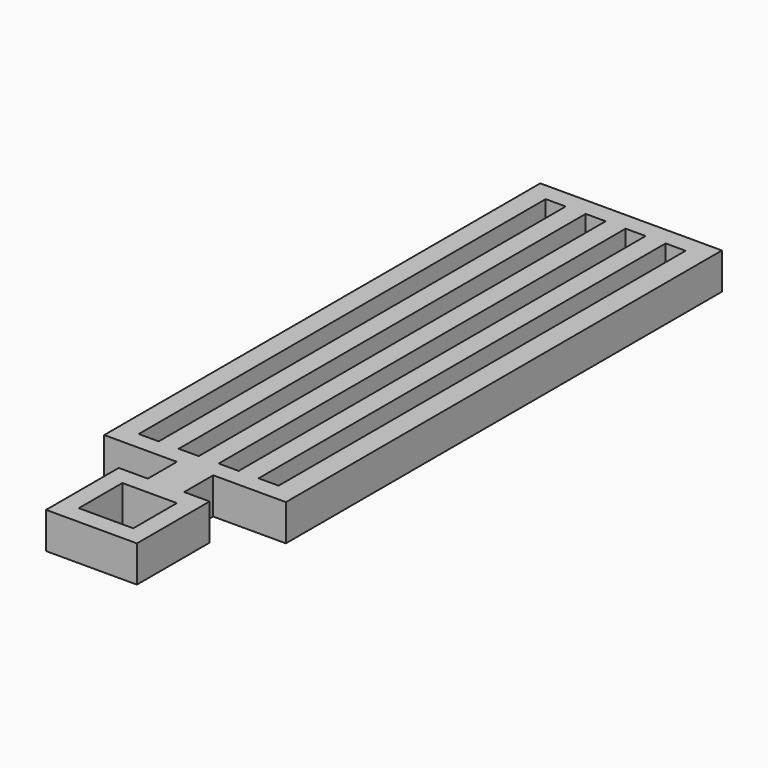
from build123d import *

# Parameters (mm, degrees)
F0_W     = 2.54
F0_H     = 2.54
F1_DEPTH = 2.54
F2_W     = 1.397
F2_H     = 35.56
F3_DEPTH = 2.541
F4_W     = 3.81
F4_H     = 3.81
F5_DEPTH = 2.541


with BuildPart() as f1:
    # F0 (on Top) → F1 (new body)
    with BuildSketch(Plane.XY):
        Polygon((6.35, 25.4), (-6.35, 25.4), (-6.35, -12.7), (-1.27, -12.7), (1.27, -12.7), (6.35, -12.7), align=None)
        with Locations((0, -13.97)):
            Rectangle(F0_W, F0_H)
        Polygon((1.27, -15.24), (-1.27, -15.24), (-3.302, -15.24), (-3.302, -21.59), (3.048, -21.59), (3.048, -15.24), align=None)
    extrude(amount=F1_DEPTH)

    # F2 (on face) → F3 (cut, through all)
    with BuildSketch(Plane.XY.offset(2.54)):
        with Locations((-4.2545, 6.35)):
            Rectangle(F2_W, F2_H)
        with Locations((-1.4605, 6.35)):
            Rectangle(F2_W, F2_H)
        with Locations((1.3335, 6.35)):
            Rectangle(F2_W, F2_H)
        with Locations((4.1275, 6.35)):
            Rectangle(F2_W, F2_H)
    extrude(amount=-F3_DEPTH, mode=Mode.SUBTRACT)

    # F4 (on face) → F5 (cut, through all)
    with BuildSketch(Plane.XY.offset(2.54)):
        with Locations((-0.127, -18.415)):
            Rectangle(F4_W, F4_H)
    extrude(amount=-F5_DEPTH, mode=Mode.SUBTRACT)


solid = f1.part
